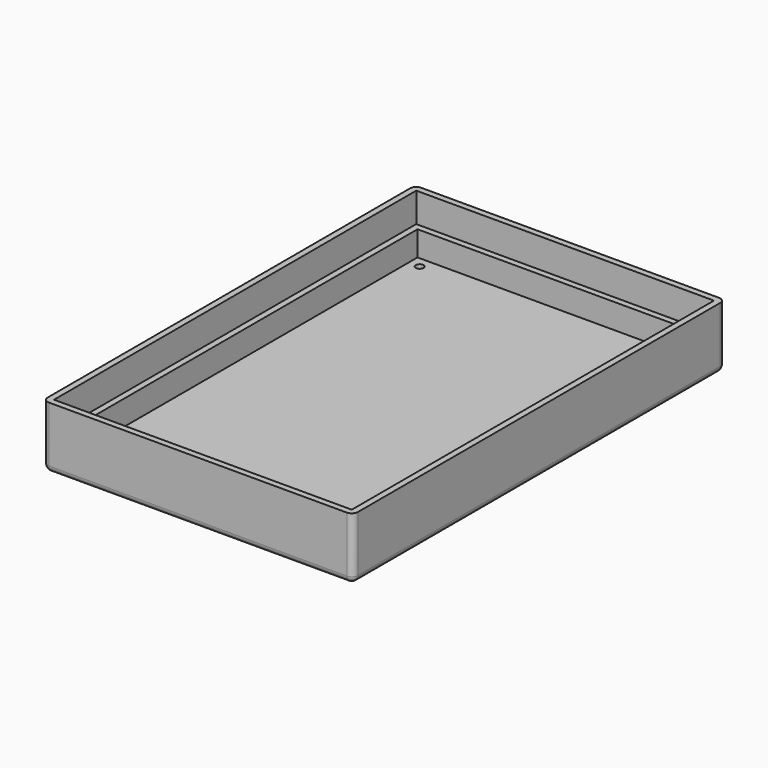
from build123d import *

# Parameters (mm, degrees)
F0_W     = 127
F0_H     = 190.5
F0_W_2   = 121.92
F0_H_2   = 185.42
F1_DEPTH = 25.4
F2_W     = 121.92
F2_H     = 3.175
F3_DEPTH = 185.42
F4_W     = 121.92
F4_H     = 185.42
F4_W_2   = 116.84
F4_H_2   = 180.34
F5_DEPTH = 10.16
F6_R     = 1.5875
F7_DEPTH = 25.4
F8_R     = 2.54


with BuildPart() as f1:
    # F0 (on Top) → F1 (new body)
    with BuildSketch(Plane.XY):
        Rectangle(F0_W, F0_H)
        Rectangle(F0_W_2, F0_H_2, mode=Mode.SUBTRACT)
    extrude(amount=F1_DEPTH)

    # F2 (on face) → F3 (join)
    with BuildSketch(Plane.XZ.offset(-92.71)):
        with Locations((0, 1.5875)):
            Rectangle(F2_W, F2_H)
    extrude(amount=F3_DEPTH)

    # F4 (on face) → F5 (join)
    with BuildSketch(Plane.XY.offset(3.175)):
        Rectangle(F4_W, F4_H)
        Rectangle(F4_W_2, F4_H_2, mode=Mode.SUBTRACT)
    extrude(amount=F5_DEPTH)

    # F6 (on face) → F7 (cut)
    with BuildSketch(Plane.XY.offset(3.175)):
        with Locations((-53.9496, 85.6996)):
            Circle(F6_R)
        with Locations((53.9496, 85.6996)):
            Circle(F6_R)
        with Locations((-53.9496, -85.6996)):
            Circle(F6_R)
        with Locations((53.9496, -85.6996)):
            Circle(F6_R)
    extrude(amount=-F7_DEPTH, mode=Mode.SUBTRACT)

    # F8
    f8_edges = [f1.edges().sort_by_distance(p)[0] for p in [
        (-63.5, 95.25, 12.7),
        (-63.5, 0, 0),
        (0, 95.25, 0),
        (63.5, 95.25, 12.7),
        (63.5, 0, 0),
        (0, -95.25, 0),
        (63.5, -95.25, 12.7),
        (-63.5, -95.25, 12.7),
    ]]
    fillet(f8_edges, radius=F8_R)


solid = f1.part
